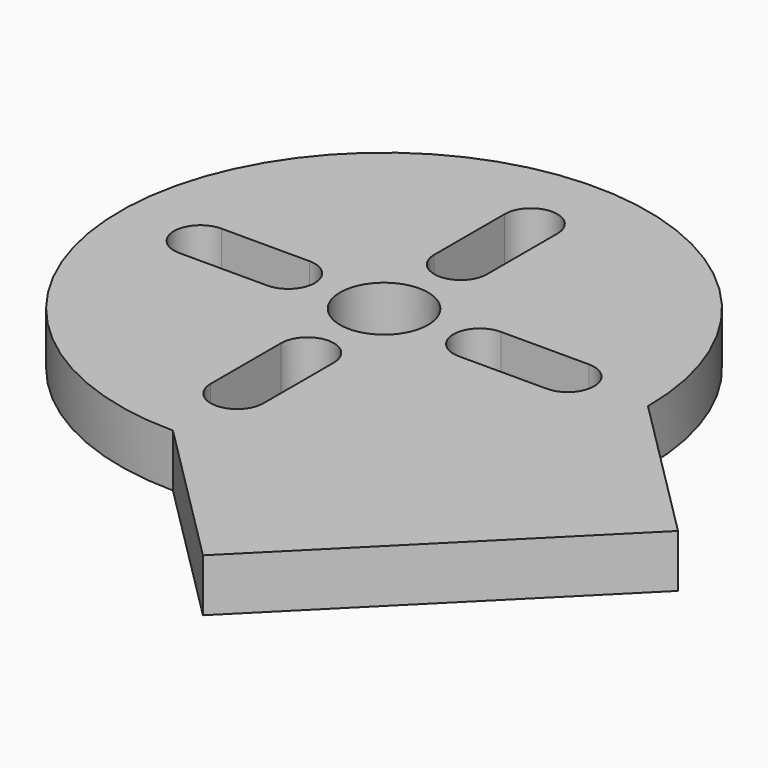
from build123d import *

# Parameters (mm, degrees)
F1_DEPTH = 3


with BuildPart() as f1:
    # F0 (on Top) → F1 (new body)
    with BuildSketch(Plane.XY):
        with BuildLine():
            Line((-47.178107, 62.178107), (-55.710678, 70.710678))
            ThreePointArc((-55.710678, 70.710678), (-81.31728, 81.31728), (-70.710678, 55.710678))
            Line((-70.710678, 55.710678), (-62.178107, 47.178107))
            Line((-62.178107, 47.178107), (-47.178107, 62.178107))
        make_face()
        with BuildLine():
            ThreePointArc((-72.210678, 65.270315), (-70.710678, 66.770315), (-69.210678, 65.270315))
            Line((-69.210678, 65.270315), (-69.210678, 60.270315))
            ThreePointArc((-69.210678, 60.270315), (-70.710678, 58.770315), (-72.210678, 60.270315))
            Line((-72.210678, 60.270315), (-72.210678, 65.270315))
        make_face(mode=Mode.SUBTRACT)
        with BuildLine():
            ThreePointArc((-76.151041, 72.210678), (-74.651041, 70.710678), (-76.151041, 69.210678))
            Line((-76.151041, 69.210678), (-81.151041, 69.210678))
            ThreePointArc((-81.151041, 69.210678), (-82.651041, 70.710678), (-81.151041, 72.210678))
            Line((-81.151041, 72.210678), (-76.151041, 72.210678))
        make_face(mode=Mode.SUBTRACT)
        with BuildLine():
            ThreePointArc((-68.942911, 72.478445), (-68.400979, 71.667387), (-68.210678, 70.710678))
            ThreePointArc((-68.210678, 70.710678), (-69.75397, 68.400979), (-72.478445, 68.942911))
            ThreePointArc((-72.478445, 68.942911), (-72.478445, 72.478445), (-68.942911, 72.478445))
        make_face(mode=Mode.SUBTRACT)
        with BuildLine():
            Line((-69.210678, 81.151041), (-69.210678, 76.151041))
            ThreePointArc((-69.210678, 76.151041), (-70.710678, 74.651041), (-72.210678, 76.151041))
            Line((-72.210678, 76.151041), (-72.210678, 81.151041))
            ThreePointArc((-72.210678, 81.151041), (-70.710678, 82.651041), (-69.210678, 81.151041))
        make_face(mode=Mode.SUBTRACT)
        with BuildLine():
            Line((-60.270315, 69.210678), (-65.270315, 69.210678))
            ThreePointArc((-65.270315, 69.210678), (-66.770315, 70.710678), (-65.270315, 72.210678))
            Line((-65.270315, 72.210678), (-60.270315, 72.210678))
            ThreePointArc((-60.270315, 72.210678), (-58.770315, 70.710678), (-60.270315, 69.210678))
        make_face(mode=Mode.SUBTRACT)
    extrude(amount=F1_DEPTH)


solid = f1.part
